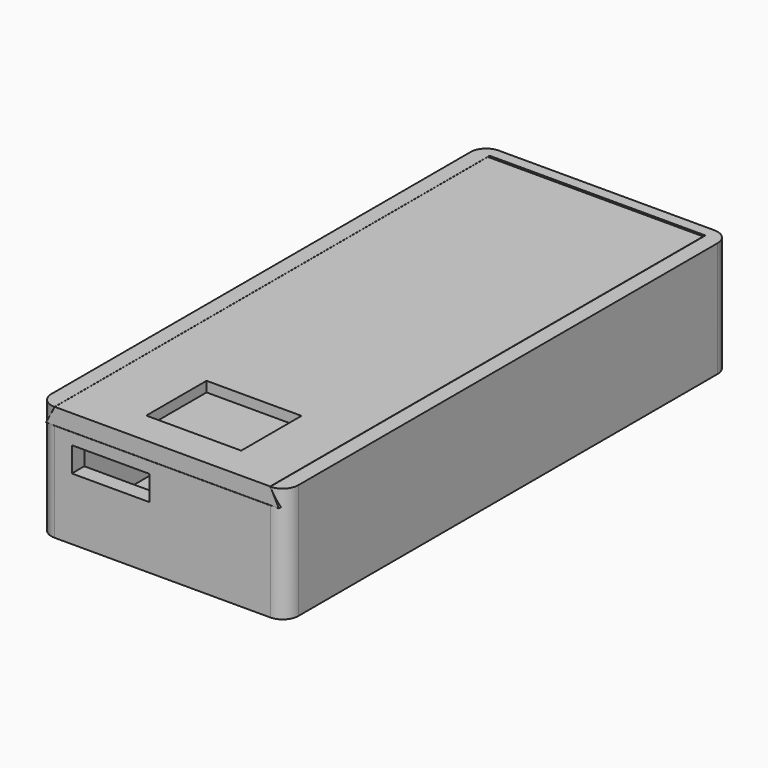
from build123d import *

# Parameters (mm, degrees)
F0_W      = 69.3147265166
F0_H      = 168.3268749714
F1_DEPTH  = 2
F2_DEPTH  = 35
F3_W      = 24.9247029424
F3_H      = 7.9923868179
F4_DEPTH  = 25
F5_W      = 69.3147265166
F5_H      = 5.3065996646
F6_DEPTH  = 174.7
F7_DEPTH  = 174.2
F8_W      = 30.5498873349
F8_H      = 24.2458432913
F9_DEPTH  = 3.3
F10_SCALE = 0.998
F11_R     = 2.75
F12_DEPTH = 25


with BuildPart() as f1:
    # F0 (on Top) → F1 (new body)
    with BuildSketch(Plane.XY):
        with BuildLine():
            Line((14.3932905048, 31.7087098956), (-54.9214360118, 31.7087098956))
            ThreePointArc((-54.9214360118, 31.7087098956), (-58.4569699177, 30.2442438015), (-59.9214360118, 26.7087098956))
            Line((-59.9214360118, 26.7087098956), (-59.9214360118, -141.6181650758))
            ThreePointArc((-59.9214360118, -141.6181650758), (-58.4569699177, -145.1536989817), (-54.9214360118, -146.6181650758))
            Line((-54.9214360118, -146.6181650758), (14.3932905048, -146.6181650758))
            ThreePointArc((14.3932905048, -146.6181650758), (17.9288244107, -145.1536989817), (19.3932905048, -141.6181650758))
            Line((19.3932905048, -141.6181650758), (19.3932905048, 26.7087098956))
            ThreePointArc((19.3932905048, 26.7087098956), (17.9288244107, 30.2442438015), (14.3932905048, 31.7087098956))
        make_face()
        with Locations((-20.2640727535, -57.4547275901)):
            Rectangle(F0_W, F0_H, mode=Mode.SUBTRACT)
        with Locations((-20.2640727535, -57.4547275901)):
            Rectangle(F0_W, F0_H)
    extrude(amount=-F1_DEPTH)

    # F0 (on Top) → F2 (join)
    with BuildSketch(Plane.XY):
        with BuildLine():
            Line((14.3932905048, 31.7087098956), (-54.9214360118, 31.7087098956))
            ThreePointArc((-54.9214360118, 31.7087098956), (-58.4569699177, 30.2442438015), (-59.9214360118, 26.7087098956))
            Line((-59.9214360118, 26.7087098956), (-59.9214360118, -141.6181650758))
            ThreePointArc((-59.9214360118, -141.6181650758), (-58.4569699177, -145.1536989817), (-54.9214360118, -146.6181650758))
            Line((-54.9214360118, -146.6181650758), (14.3932905048, -146.6181650758))
            ThreePointArc((14.3932905048, -146.6181650758), (17.9288244107, -145.1536989817), (19.3932905048, -141.6181650758))
            Line((19.3932905048, -141.6181650758), (19.3932905048, 26.7087098956))
            ThreePointArc((19.3932905048, 26.7087098956), (17.9288244107, 30.2442438015), (14.3932905048, 31.7087098956))
        make_face()
        with Locations((-20.2640727535, -57.4547275901)):
            Rectangle(F0_W, F0_H, mode=Mode.SUBTRACT)
    extrude(amount=F2_DEPTH)

    # F3 (on face) → F4 (cut)
    with BuildSketch(Plane.XZ.offset(146.6181650758)):
        with Locations((-36.8908047676, 21.9889543951)):
            Rectangle(F3_W, F3_H)
    extrude(amount=-F4_DEPTH, mode=Mode.SUBTRACT)

    # F5 (on face) → F6 (cut)
    with BuildSketch(Plane.XZ.offset(146.6181650758)):
        Polygon((-57.7214360118, 29.6934003354), (-54.9214360118, 29.6934003354), (-54.9214360118, 35), align=None)
        with Locations((-20.2640727535, 32.3467001677)):
            Rectangle(F5_W, F5_H)
        Polygon((14.3932905048, 35), (14.3932905048, 29.6934003354), (17.1932905048, 29.6934003354), align=None)
    extrude(amount=-F6_DEPTH, mode=Mode.SUBTRACT)

    # F11 (on face) → F12 (cut)
    with BuildSketch(Plane(origin=(0, 0, -2), x_dir=(1, 0, 0), z_dir=(0, 0, -1))):
        with Locations((-37.7034781314, 130.7718157768)):
            Circle(F11_R)
        with Locations((-2.8246673755, 130.7718157768)):
            Circle(F11_R)
        with Locations((-37.7034781314, -15.8623605967)):
            Circle(F11_R)
        with Locations((-2.8246673755, -15.8623605967)):
            Circle(F11_R)
    extrude(amount=-F12_DEPTH, mode=Mode.SUBTRACT)


with BuildPart() as f7:
    # F5 (on face) → F7 (new body)
    with BuildSketch(Plane.XZ.offset(146.6181650758)):
        with Locations((-20.2640727535, 32.3467001677)):
            Rectangle(F5_W, F5_H)
        Polygon((-57.7214360118, 29.6934003354), (-54.9214360118, 29.6934003354), (-54.9214360118, 35), align=None)
        Polygon((14.3932905048, 35), (14.3932905048, 29.6934003354), (17.1932905048, 29.6934003354), align=None)
    extrude(amount=-F7_DEPTH)

    # F8 (on face) → F9 (cut)
    with BuildSketch(Plane.XY.offset(35)):
        with Locations((-18.7282656552, -123.8348558545)):
            Rectangle(F8_W, F8_H)
    extrude(amount=-F9_DEPTH, mode=Mode.SUBTRACT)


with BuildPart() as f7_1:
    # F10: moved
    add(f7.part.scale(F10_SCALE).moved(Location((-0.0680064186, -0.2234238684, 0.07))))


solid = Compound([f1.part, f7_1.part])
